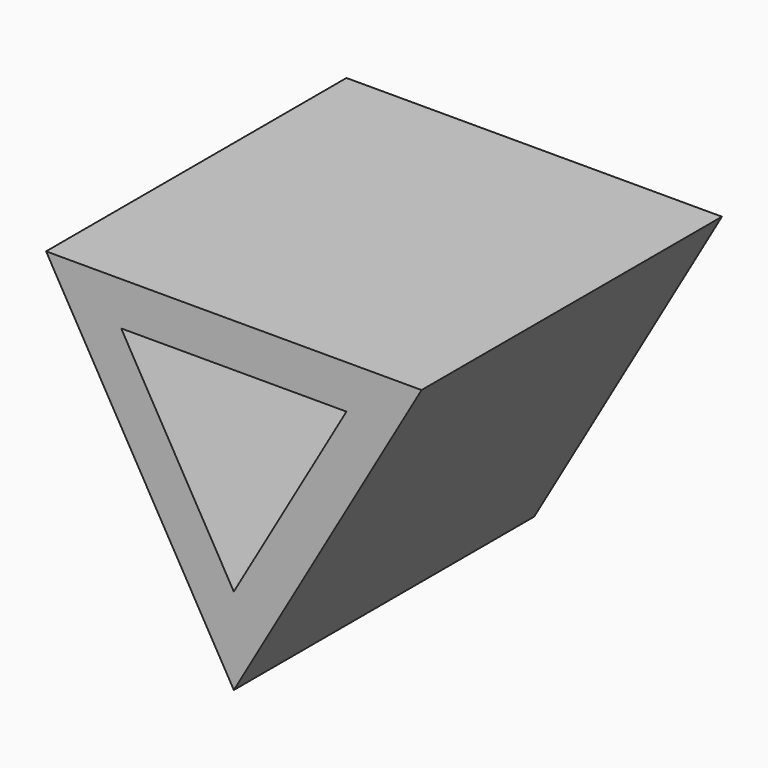
from build123d import *

# Parameters (mm, degrees)
F3_DEPTH = 127
F4_DEPTH = 127


with BuildPart() as f3:
    # F0 (on Front) → F3 (new body)
    with BuildSketch(Plane.XZ):
        Polygon((63.5, 0), (-63.5, 0), (0, -109.985226), align=None)
    extrude(amount=-F3_DEPTH)

    # F2 (on offset) → F4 (cut)
    with BuildSketch(Plane.XZ.offset(-127)):
        Polygon((38.1, -14.682491), (-38.1, -14.682491), (0, -80.673626), align=None)
    extrude(amount=F4_DEPTH, mode=Mode.SUBTRACT)


solid = f3.part
